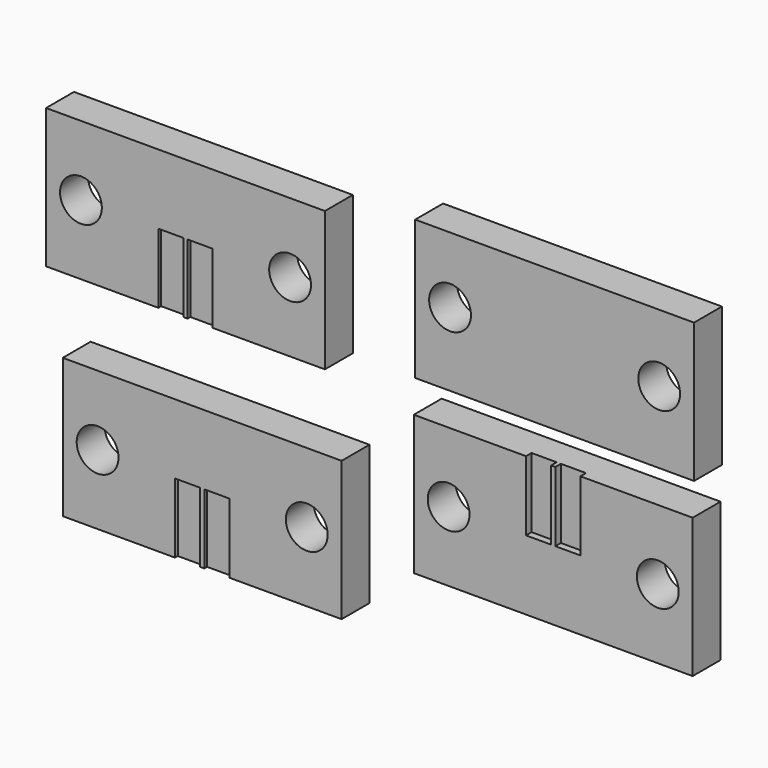
from build123d import *

# Parameters (mm, degrees)
F0_W      = 20
F0_H      = 10
F1_DEPTH  = 2.5
F2_W      = 1.8
F2_H      = 5.579838
F2_H_2    = 5.767533
F3_DEPTH  = 0.5
F4_R      = 1.5
F5_DEPTH  = 3
F6_R      = 1.5
F7_DEPTH  = 3
F8_W      = 20
F8_H      = 10
F9_DEPTH  = 2.5
F10_W     = 1.8
F10_H     = 5
F11_DEPTH = 0.25
F12_W     = 1.8
F12_H     = 5
F13_DEPTH = 0.25
F14_R     = 1.5
F15_DEPTH = 3
F16_R     = 1.5
F17_DEPTH = 3


with BuildPart() as f1:
    # F0 (on Front) → F1 (new body)
    with BuildSketch(Plane.XZ):
        with Locations((-35.258645, 38.665584)):
            Rectangle(F0_W, F0_H)
        with Locations((-35.358997, 26.312298)):
            Rectangle(F0_W, F0_H)
    extrude(amount=F1_DEPTH)

    # F2 (on face) → F3 (cut)
    with BuildSketch(Plane.XZ.offset(2.5)):
        with Locations((-36.408997, 29.102217)):
            Rectangle(F2_W, F2_H)
        with Locations((-34.308997, 29.196064)):
            Rectangle(F2_W, F2_H_2)
    extrude(amount=-F3_DEPTH, mode=Mode.SUBTRACT)

    # F4 (on face) → F5 (cut)
    with BuildSketch(Plane.XZ.offset(2.5)):
        with Locations((-42.858997, 26.312298)):
            Circle(F4_R)
        with Locations((-27.858997, 26.312298)):
            Circle(F4_R)
    extrude(amount=-F5_DEPTH, mode=Mode.SUBTRACT)

    # F6 (on face) → F7 (cut)
    with BuildSketch(Plane.XZ.offset(2.5)):
        with Locations((-42.758645, 38.930405)):
            Circle(F6_R)
        with Locations((-27.758645, 38.834177)):
            Circle(F6_R)
    extrude(amount=-F7_DEPTH, mode=Mode.SUBTRACT)


with BuildPart() as f9:
    # F8 (on Front) → F9 (new body)
    with BuildSketch(Plane.XZ):
        with Locations((-61.731721, 37.103924)):
            Rectangle(F8_W, F8_H)
        with Locations((-60.535134, 21.719313)):
            Rectangle(F8_W, F8_H)
    extrude(amount=F9_DEPTH)

    # F10 (on face) → F11 (cut)
    with BuildSketch(Plane.XZ.offset(2.5)):
        with Locations((-62.781721, 34.603924)):
            Rectangle(F10_W, F10_H)
        with Locations((-60.681721, 34.603924)):
            Rectangle(F10_W, F10_H)
    extrude(amount=-F11_DEPTH, mode=Mode.SUBTRACT)

    # F12 (on face) → F13 (cut)
    with BuildSketch(Plane.XZ.offset(2.5)):
        with Locations((-61.585134, 19.219313)):
            Rectangle(F12_W, F12_H)
        with Locations((-59.485134, 19.219313)):
            Rectangle(F12_W, F12_H)
    extrude(amount=-F13_DEPTH, mode=Mode.SUBTRACT)

    # F14 (on face) → F15 (cut)
    with BuildSketch(Plane.XZ.offset(2.5)):
        with Locations((-69.231721, 37.103924)):
            Circle(F14_R)
        with Locations((-54.231721, 37.103924)):
            Circle(F14_R)
    extrude(amount=-F15_DEPTH, mode=Mode.SUBTRACT)

    # F16 (on face) → F17 (cut)
    with BuildSketch(Plane.XZ.offset(2.5)):
        with Locations((-68.035134, 21.719313)):
            Circle(F16_R)
        with Locations((-53.035134, 21.719313)):
            Circle(F16_R)
    extrude(amount=-F17_DEPTH, mode=Mode.SUBTRACT)


solid = Compound([f1.part, f9.part])
